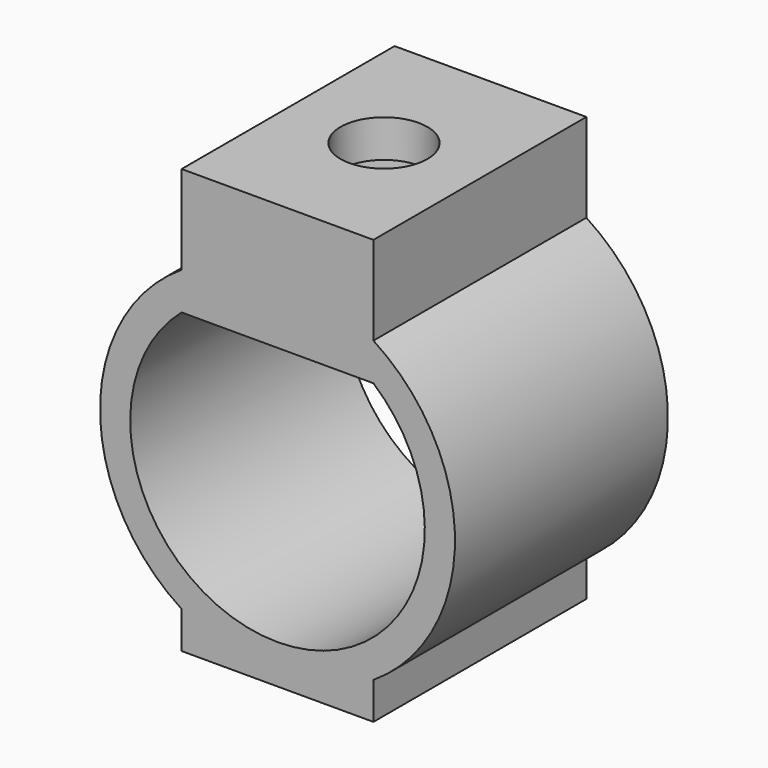
from build123d import *

# Parameters (mm, degrees)
PAD002_DEPTH    = 15
POCKET_DEPTH    = 5
SKETCH007_R     = 2.45
POCKET001_DEPTH = 2.115274
PAD003_DEPTH    = 15


with BuildPart() as part:
    # Sketch002 (on DatumPlane) → Pad002 (new body)
    with BuildSketch(Plane.XZ.offset(20)):
        with BuildLine():
            ThreePointArc((-5.403702, 8.414274), (0, -10), (5.403702, 8.414274))
            Line((5.403702, 13.414274), (5.403702, 8.414274))
            Line((-5.403702, 13.414274), (5.403702, 13.414274))
            Line((-5.403702, 8.414274), (-5.403702, 13.414274))
        make_face()
        with BuildLine():
            ThreePointArc((-5.403702, 6.3), (0, -8.3), (5.403702, 6.3))
            Line((-5.403702, 6.3), (5.403702, 6.3))
        make_face(mode=Mode.SUBTRACT)
    extrude(amount=PAD002_DEPTH)

    # Sketch006 (on Face6 of Pad002) → Pocket (cut)
    with BuildSketch(Plane(origin=(0, -20, 6.3), x_dir=(1, 0, 0), z_dir=(0, 0, -1))):
        Polygon((-3.925, 9.7661), (-3.925, 5.2339), (0, 2.9678), (3.925, 5.2339), (3.925, 9.7661), (0, 12.0322), align=None)
    extrude(amount=-POCKET_DEPTH, mode=Mode.SUBTRACT)

    # Sketch007 (on Face15 of Pocket) → Pocket001 (cut, through all)
    with BuildSketch(Plane(origin=(0, -20, 11.3), x_dir=(1, 0, 0), z_dir=(0, 0, -1))):
        with Locations((0, 7.5)):
            Circle(SKETCH007_R)
    extrude(amount=-POCKET001_DEPTH, mode=Mode.SUBTRACT)

    # Sketch008 (on Face5 of Pocket001) → Pad003 (join)
    with BuildSketch(Plane.XZ.offset(35)):
        with BuildLine():
            Line((-5.403702, -8.414274), (-5.403702, -10.5))
            Line((-5.403702, -10.5), (5.403702, -10.5))
            Line((5.403702, -10.5), (5.403702, -8.414274))
            ThreePointArc((-5.403702, -8.414274), (0, -10), (5.403702, -8.414274))
        make_face()
    extrude(amount=-PAD003_DEPTH)


solid = part.part
